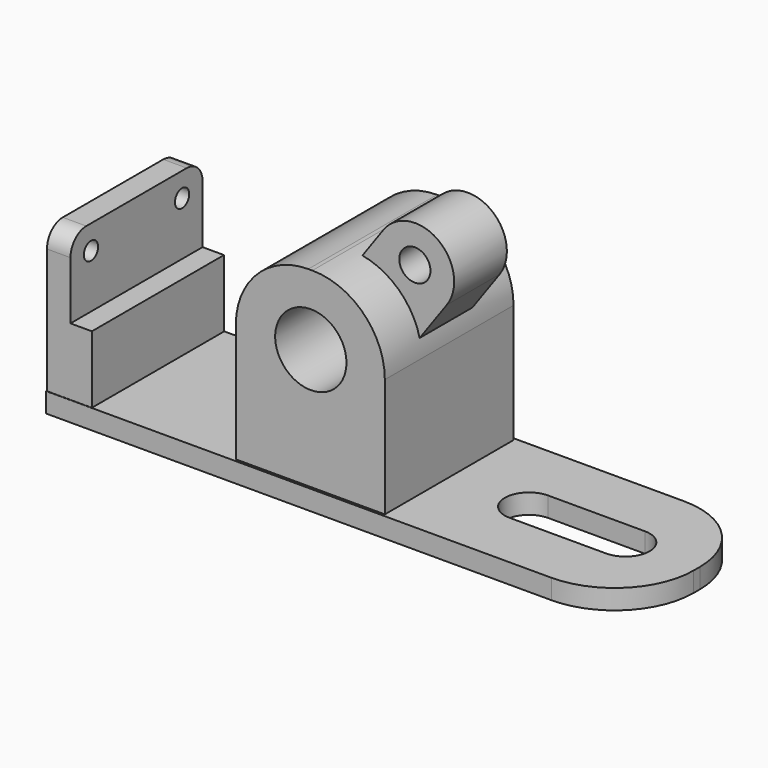
from build123d import *

# Parameters (mm, degrees)
SKETCH_W        = 88.694274
SKETCH_H        = 25.15924
PAD_DEPTH       = 3
FILLET_R        = 12
POCKET_DEPTH    = 5
SKETCH002_W     = 6.815415
SKETCH002_H     = 25.06178
PAD001_DEPTH    = 22
FILLET001_R     = 3
SKETCH003_W     = 6.847126
SKETCH003_H     = 18.152864
POCKET001_DEPTH = 25.11151
SKETCH004_R     = 1.351161
POCKET002_DEPTH = 14
SKETCH005_W     = 22.611487
SKETCH005_H     = 24.415462
PAD002_DEPTH    = 29
FILLET002_R     = 11
PAD003_DEPTH    = 5
SKETCH007_R     = 2.367202
POCKET003_DEPTH = 17.788351
SKETCH008_R     = 5.409327
POCKET004_DEPTH = 24.788351


with BuildPart() as part:
    # Sketch → Pad (new body)
    with BuildSketch(Plane.XY):
        Rectangle(SKETCH_W, SKETCH_H)
    extrude(amount=PAD_DEPTH)

    # Fillet
    fillet_edges = [part.edges().sort_by_distance(p)[0] for p in [
        (44.347137, -12.57962, 1.5),
        (44.347137, 12.57962, 1.5),
    ]]
    fillet(fillet_edges, radius=FILLET_R)

    # Sketch001 (on Face5 of Fillet) → Pocket (cut)
    with BuildSketch(Plane.XY.offset(3)):
        with BuildLine():
            ThreePointArc((18.869435, 3.66242), (15.207015, 0), (18.869435, -3.66242))
            Line((18.869435, -3.66242), (33.519115, -3.66242))
            ThreePointArc((33.519115, -3.66242), (37.181535, 0), (33.519115, 3.66242))
            Line((33.519115, 3.66242), (18.869435, 3.66242))
        make_face()
    extrude(amount=-POCKET_DEPTH, mode=Mode.SUBTRACT)

    # Sketch002 (on Face5 of Pocket) → Pad001 (join)
    with BuildSketch(Plane.XY.offset(3)):
        with Locations((-40.843948, 0)):
            Rectangle(SKETCH002_W, SKETCH002_H)
    extrude(amount=PAD001_DEPTH)

    # Fillet001
    fillet001_edges = [part.edges().sort_by_distance(p)[0] for p in [
        (-40.843949, -12.53089, 25),
        (-40.843948, 12.53089, 25),
    ]]
    fillet(fillet001_edges, radius=FILLET001_R)

    # Sketch003 (on Face2 of Fillet001) → Pocket001 (cut, through all)
    with BuildSketch(Plane.XZ.offset(12.53089)):
        with Locations((-37.261145, 22.292999)):
            Rectangle(SKETCH003_W, SKETCH003_H)
    extrude(amount=-POCKET001_DEPTH, mode=Mode.SUBTRACT)

    # Sketch004 (on Face18 of Pocket001) → Pocket002 (cut)
    with BuildSketch(Plane.YZ.offset(-40.684708)):
        with Locations((-8.64271, 21.337582)):
            Circle(SKETCH004_R)
        with Locations((8.64271, 21.337582)):
            Circle(SKETCH004_R)
    extrude(amount=-POCKET002_DEPTH, mode=Mode.SUBTRACT)

    # Sketch005 (on Face2 of Pocket002) → Pad002 (join)
    with BuildSketch(Plane.XY.offset(3)):
        with Locations((-4.538261, 0)):
            Rectangle(SKETCH005_W, SKETCH005_H)
    extrude(amount=PAD002_DEPTH)

    # Fillet002
    fillet002_edges = [part.edges().sort_by_distance(p)[0] for p in [
        (6.767482, 0, 32),
        (-15.844005, 0, 32),
    ]]
    fillet(fillet002_edges, radius=FILLET002_R)

    # Sketch006 (on Face1 of Fillet002) → Pad003 (join, symmetric)
    with BuildSketch(Plane.XZ.offset(0.207731)):
        with BuildLine():
            ThreePointArc((-10.734413, 19.926899), (-9.362729, 11.672937), (-1.108767, 13.044622))
            Line((-1.108767, 13.044622), (10.583898, 29.398141))
            ThreePointArc((10.583898, 29.398141), (9.212214, 37.652103), (0.958252, 36.280419))
            Line((0.958252, 36.280419), (-10.734413, 19.926899))
        make_face()
    extrude(amount=PAD003_DEPTH, both=True)

    # Sketch007 (on Face11 of Pad003) → Pocket003 (cut, through all)
    with BuildSketch(Plane.XZ.offset(5.207731)):
        with Locations((5.724531, 33.13562)):
            Circle(SKETCH007_R)
    extrude(amount=-POCKET003_DEPTH, mode=Mode.SUBTRACT)

    # Sketch008 (on Face1 of Pocket003) → Pocket004 (cut, through all)
    with BuildSketch(Plane.XZ.offset(12.207731)):
        with Locations((-4.466556, 21.352194)):
            Circle(SKETCH008_R)
    extrude(amount=-POCKET004_DEPTH, mode=Mode.SUBTRACT)


solid = part.part
